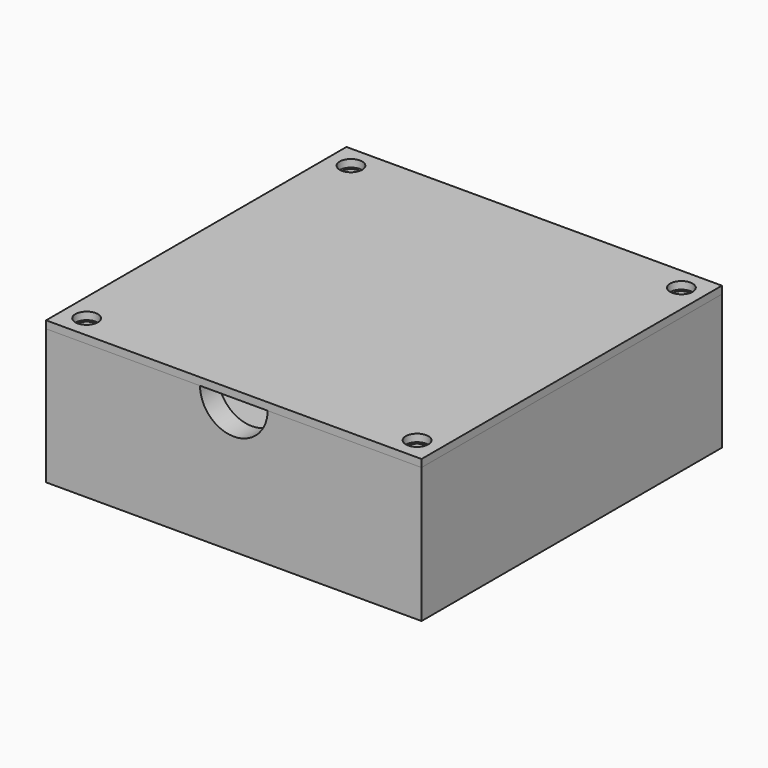
from build123d import *

# Parameters (mm, degrees)
SKETCH_W        = 50
SKETCH_H        = 50
PAD_DEPTH       = 1
SKETCH001_W     = 50
SKETCH001_H     = 50
PAD001_DEPTH    = 17
SKETCH002_R     = 1.15
POCKET_DEPTH    = 8
POCKET001_DEPTH = 3
SKETCH004_W     = 50
SKETCH004_H     = 50
SKETCH004_R     = 1.5
PAD002_DEPTH    = 1


with BuildPart() as main_box:
    # Sketch → Pad (new body)
    with BuildSketch(Plane.XY):
        Rectangle(SKETCH_W, SKETCH_H)
        with BuildLine():
            ThreePointArc((-2.561738, 4), (-4.75, 0), (-2.561738, -4))
            Line((2.561738, -4), (-2.561738, -4))
            ThreePointArc((2.561738, -4), (4.75, 0), (2.561738, 4))
            Line((-2.561738, 4), (2.561738, 4))
        make_face(mode=Mode.SUBTRACT)
    extrude(amount=-PAD_DEPTH)

    # Sketch001 → Pad001 (join)
    with BuildSketch(Plane.XY):
        Rectangle(SKETCH001_W, SKETCH001_H)
        Polygon((-19, 22), (19, 22), (19, 19), (22, 19), (22, -19), (19, -19), (19, -22), (-19, -22), (-19, -19), (-22, -19), (-22, 19), (-19, 19), align=None, mode=Mode.SUBTRACT)
    extrude(amount=PAD001_DEPTH)

    # Sketch002 (on Face9 of Pad001) → Pocket (cut)
    with BuildSketch(Plane.XY.offset(17)):
        with Locations((-22, 22)):
            Circle(SKETCH002_R)
        with Locations((22, 22)):
            Circle(SKETCH002_R)
        with Locations((-22, -22)):
            Circle(SKETCH002_R)
        with Locations((22, -22)):
            Circle(SKETCH002_R)
    extrude(amount=-POCKET_DEPTH, mode=Mode.SUBTRACT)

    # Sketch003 (on Face14 of Pocket) → Pocket001 (cut)
    with BuildSketch(Plane.XZ.offset(25)):
        with BuildLine():
            ThreePointArc((-4.5, 17), (0, 12.5), (4.5, 17))
            Line((-4.5, 17), (4.5, 17))
        make_face()
    extrude(amount=-POCKET001_DEPTH, mode=Mode.SUBTRACT)


with BuildPart() as cover:
    # Sketch004 → Pad002 (new body)
    with BuildSketch(Plane.XY.offset(17)):
        Rectangle(SKETCH004_W, SKETCH004_H)
        with Locations((-22, 22)):
            Circle(SKETCH004_R, mode=Mode.SUBTRACT)
        with Locations((22, 22)):
            Circle(SKETCH004_R, mode=Mode.SUBTRACT)
        with Locations((22, -22)):
            Circle(SKETCH004_R, mode=Mode.SUBTRACT)
        with Locations((-22, -22)):
            Circle(SKETCH004_R, mode=Mode.SUBTRACT)
    extrude(amount=PAD002_DEPTH)


solid = Compound([main_box.part, cover.part])
